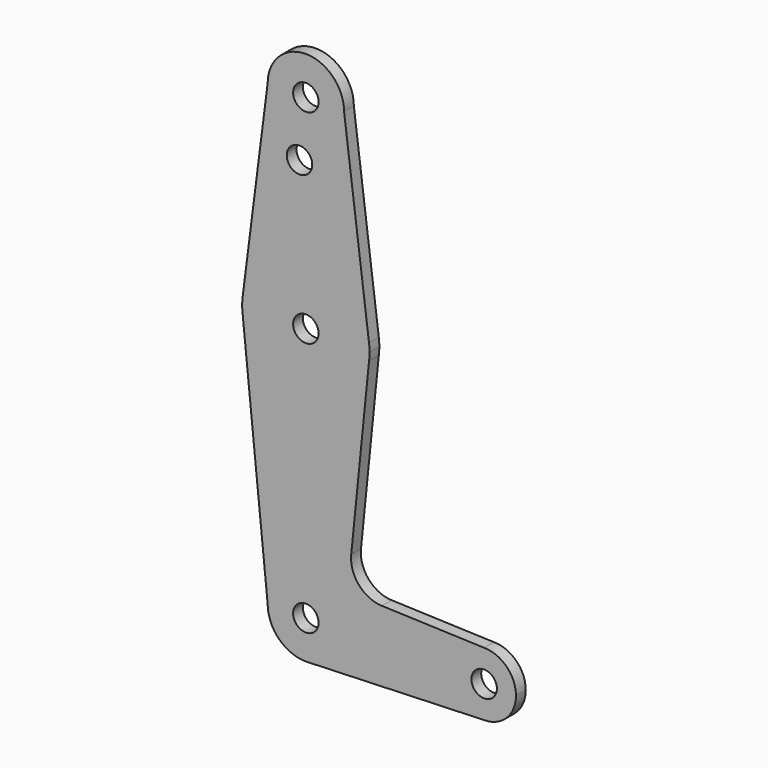
from build123d import *

# Parameters (mm, degrees)
F0_R     = 3.175
F1_DEPTH = 3.048


with BuildPart() as f1:
    # F0 (on Front) → F1 (new body)
    with BuildSketch(Plane.XZ):
        with BuildLine():
            ThreePointArc((15.747457, 61.491711), (15.843082, 62.493832), (15.875, 63.5))
            ThreePointArc((15.875, 63.5), (15.843082, 64.506168), (15.747457, 65.508289))
            ThreePointArc((15.747457, 65.508289), (0, 79.375), (-15.747457, 65.508289))
            ThreePointArc((-15.747457, 65.508289), (-15.875, 63.5), (-15.747457, 61.491711))
            ThreePointArc((-15.747457, 61.491711), (0, 47.625), (15.747457, 61.491711))
        make_face()
        with Locations((0, 63.5)):
            Circle(F0_R, mode=Mode.SUBTRACT)
        with BuildLine():
            ThreePointArc((-15.747457, 65.508289), (0, 79.375), (15.747457, 65.508289))
            Line((15.747457, 65.508289), (9.525, 114.3))
            ThreePointArc((9.525, 114.3), (0, 104.775), (-9.525, 114.3))
            Line((-9.525, 114.3), (-15.747457, 65.508289))
        make_face()
        with Locations((-1.5875, 100.0252)):
            Circle(F0_R, mode=Mode.SUBTRACT)
        with BuildLine():
            Line((11.305765, 17.597919), (15.747457, 61.491711))
            ThreePointArc((15.747457, 61.491711), (0, 47.625), (-15.747457, 61.491711))
            Line((-15.747457, 61.491711), (-9.525, 0))
            ThreePointArc((-9.525, 0), (0, 9.525), (9.525, 0))
            Line((9.525, 0), (36.5125, 0))
            ThreePointArc((36.5125, 0), (38.83734, 5.61266), (44.45, 7.9375))
            Line((44.45, 7.9375), (18.930724, 8.852416))
            ThreePointArc((18.930724, 8.852416), (13.223156, 11.572893), (11.305765, 17.597919))
        make_face()
        with BuildLine():
            ThreePointArc((-9.525, 114.3), (0, 104.775), (9.525, 114.3))
            ThreePointArc((9.525, 114.3), (0, 123.825), (-9.525, 114.3))
        make_face()
        with Locations((0, 114.3)):
            Circle(F0_R, mode=Mode.SUBTRACT)
        Circle(F0_R)
        with BuildLine():
            ThreePointArc((9.525, 0), (0, 9.525), (-9.525, 0))
            ThreePointArc((-9.525, 0), (-6.613434, -6.854788), (0.341271, -9.518884))
            ThreePointArc((0.341271, -9.518884), (6.854788, -6.613434), (9.525, 0))
        make_face()
        Circle(F0_R, mode=Mode.SUBTRACT)
        with BuildLine():
            Line((36.5125, 0), (9.525, 0))
            ThreePointArc((9.525, 0), (6.854788, -6.613434), (0.341271, -9.518884))
            Line((0.341271, -9.518884), (44.45, -7.9375))
            ThreePointArc((44.45, -7.9375), (38.83734, -5.61266), (36.5125, 0))
        make_face()
        with BuildLine():
            ThreePointArc((47.625, 0), (44.45, 3.175), (41.275, 0))
            ThreePointArc((41.275, 0), (44.45, -3.175), (47.625, 0))
        make_face()
        with BuildLine():
            ThreePointArc((52.3875, 0), (50.06266, 5.61266), (44.45, 7.9375))
            ThreePointArc((44.45, 7.9375), (38.83734, 5.61266), (36.5125, 0))
            ThreePointArc((36.5125, 0), (38.83734, -5.61266), (44.45, -7.9375))
            ThreePointArc((44.45, -7.9375), (50.06266, -5.61266), (52.3875, 0))
        make_face()
        with BuildLine():
            ThreePointArc((47.625, 0), (44.45, -3.175), (41.275, 0))
            ThreePointArc((41.275, 0), (44.45, 3.175), (47.625, 0))
        make_face(mode=Mode.SUBTRACT)
    extrude(amount=F1_DEPTH)


solid = f1.part
